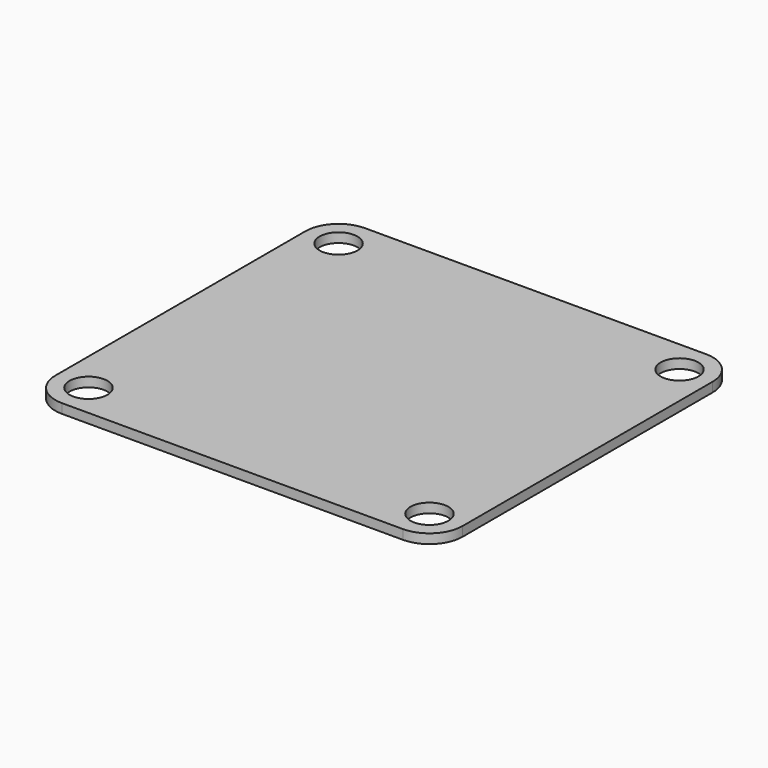
from build123d import *

# Parameters (mm, degrees)
F0_R     = 2
F1_DEPTH = 1


with BuildPart() as f1:
    # F0 (on Top) → F1 (new body)
    with BuildSketch(Plane.XY):
        with BuildLine():
            Line((-18, -20), (18, -20))
            ThreePointArc((18, -20), (20.474874, -18.974874), (21.5, -16.5))
            Line((21.5, -16.5), (21.5, 16.5))
            ThreePointArc((21.5, 16.5), (20.474874, 18.974874), (18, 20))
            Line((18, 20), (-18, 20))
            ThreePointArc((-18, 20), (-20.474874, 18.974874), (-21.5, 16.5))
            Line((-21.5, 16.5), (-21.5, -16.5))
            ThreePointArc((-21.5, -16.5), (-20.474874, -18.974874), (-18, -20))
        make_face()
        with Locations((-18, -16.5)):
            Circle(F0_R, mode=Mode.SUBTRACT)
        with Locations((18, -16.5)):
            Circle(F0_R, mode=Mode.SUBTRACT)
        with Locations((-18, 16.5)):
            Circle(F0_R, mode=Mode.SUBTRACT)
        with Locations((18, 16.5)):
            Circle(F0_R, mode=Mode.SUBTRACT)
    extrude(amount=-F1_DEPTH)


solid = f1.part
